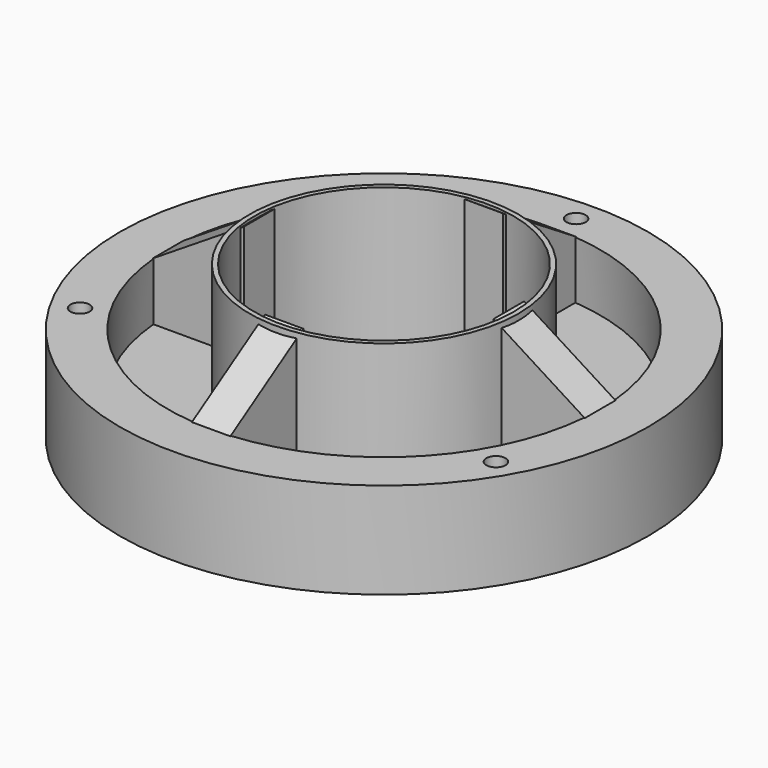
from build123d import *

# Parameters (mm, degrees)
SKETCH_R      = 27.5
SKETCH_R_2    = 22.5
SKETCH_R_3    = 1
PAD_DEPTH     = 10
SKETCH001_R   = 22.5
SKETCH001_R_2 = 14
PAD001_DEPTH  = 4
PAD002_DEPTH  = 2
PAD003_DEPTH  = 2
SKETCH004_R   = 14
SKETCH004_R_2 = 13.5
PAD004_DEPTH  = 16


with BuildPart() as part:
    # Sketch → Pad (new body)
    with BuildSketch(Plane.XY):
        Circle(SKETCH_R)
        Circle(SKETCH_R_2, mode=Mode.SUBTRACT)
        with Locations((0, 25)):
            Circle(SKETCH_R_3, mode=Mode.SUBTRACT)
        with Locations((-21.650635, -12.5)):
            Circle(SKETCH_R_3, mode=Mode.SUBTRACT)
        with Locations((21.650635, -12.5)):
            Circle(SKETCH_R_3, mode=Mode.SUBTRACT)
    extrude(amount=PAD_DEPTH)

    # Sketch001 → Pad001 (join)
    with BuildSketch(Plane.XY):
        Circle(SKETCH001_R)
        Circle(SKETCH001_R_2, mode=Mode.SUBTRACT)
    extrude(amount=PAD001_DEPTH)

    # Sketch002 → Pad002 (join, symmetric)
    with BuildSketch(Plane.XZ):
        Polygon((22.5, 10), (22.5, 4), (13, 4), (13, 16), align=None)
        Polygon((-22.5, 10), (-22.5, 4), (-13, 4), (-13, 16), align=None)
    extrude(amount=PAD002_DEPTH, both=True)

    # Sketch003 → Pad003 (join, symmetric)
    with BuildSketch(Plane.YZ):
        Polygon((13, 4), (22.5, 4), (22.5, 10), (13, 16), align=None)
        Polygon((-13, 4), (-22.5, 4), (-22.5, 10), (-13, 16), align=None)
    extrude(amount=PAD003_DEPTH, both=True)

    # Sketch004 → Pad004 (join)
    with BuildSketch(Plane.XY):
        Circle(SKETCH004_R)
        Circle(SKETCH004_R_2, mode=Mode.SUBTRACT)
    extrude(amount=PAD004_DEPTH)


solid = part.part
